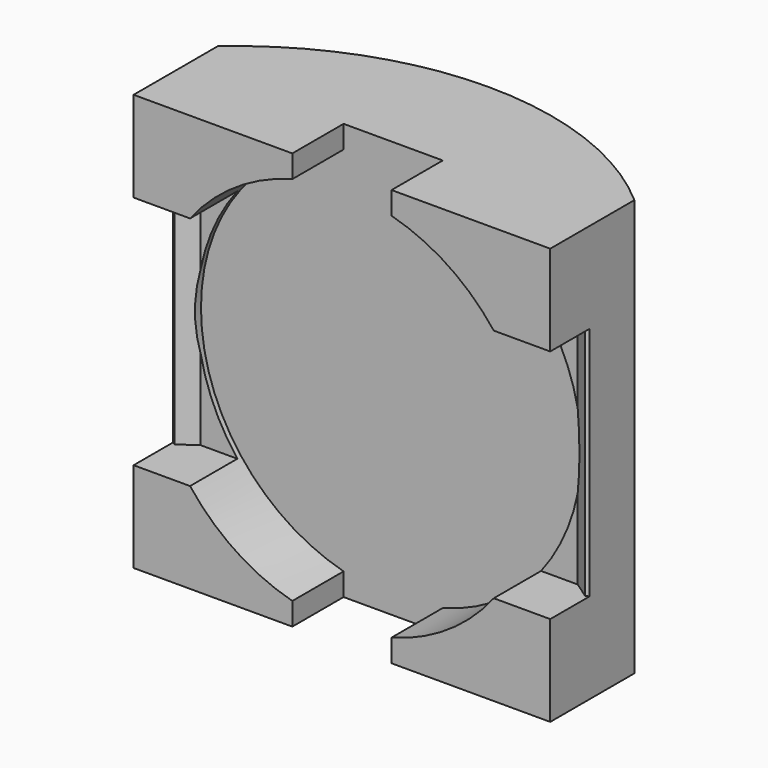
from build123d import *

# Parameters (mm, degrees)
PAD001_DEPTH         = 16.8
PAD001_DEPTH_BACK    = 16.8
POCKET004_DEPTH      = 9.5
POCKET004_DEPTH_BACK = 9.5
CHAMFER002_SIZE      = 0.3
POCKET005_DEPTH      = 15.866909


with BuildPart() as part:
    # Sketch005 → Pad001 (new body, two sides)
    with BuildSketch(Plane.XY) as pad001_sk:
        with BuildLine():
            Line((-16.8, 10.7), (16.8, 10.7))
            Line((16.8, 10.7), (16.8, 19.183587))
            ThreePointArc((16.8, 19.183587), (0, 25.5), (-16.8, 19.183587))
            Line((-16.8, 10.7), (-16.8, 19.183587))
        make_face()
    extrude(amount=PAD001_DEPTH)
    extrude(pad001_sk.sketch, amount=-PAD001_DEPTH_BACK)

    # Sketch006 → Pocket004 (cut, two sides)
    with BuildSketch(Plane.XY) as pocket004_sk:
        with BuildLine():
            Line((-15.2, 15.466909), (15.2, 15.466909))
            Line((15.2, 15.466909), (21, 11.466909))
            Line((21, 11.466909), (23, 11.466909))
            ThreePointArc((24.265231, 8.466909), (23.680172, 9.986965), (23, 11.466909))
            Line((11, 10.5), (24.265231, 8.466909))
            Line((11, 10.5), (-11, 10.5))
            Line((-11, 10.5), (-24.265231, 8.466909))
            ThreePointArc((-23, 11.466909), (-23.680172, 9.986965), (-24.265231, 8.466909))
            Line((-21, 11.466909), (-23, 11.466909))
            Line((-15.2, 15.466909), (-21, 11.466909))
        make_face()
    extrude(amount=-POCKET004_DEPTH, mode=Mode.SUBTRACT)
    extrude(pocket004_sk.sketch, amount=POCKET004_DEPTH_BACK, mode=Mode.SUBTRACT)

    # Chamfer002
    chamfer002_edges = [part.edges().sort_by_distance(p)[0] for p in [
        (-16.8, 14.363461, 0),
        (16.8, 14.363461, 0),
    ]]
    chamfer(chamfer002_edges, length=CHAMFER002_SIZE)

    # Sketch007 → Pocket005 (cut)
    with BuildSketch(Plane.XZ):
        with BuildLine():
            Line((-4, 14.974979), (-4, 27.304979))
            Line((-4, 27.304979), (4, 27.304979))
            Line((4, 27.304979), (4, 14.974979))
            ThreePointArc((4, -14.974979), (15.5, 0), (4, 14.974979))
            Line((4, -27.304979), (4, -14.974979))
            Line((-4, -27.304979), (4, -27.304979))
            Line((-4, -14.974979), (-4, -27.304979))
            ThreePointArc((-4, 14.974979), (-15.5, 0), (-4, -14.974979))
        make_face()
    extrude(amount=-POCKET005_DEPTH, mode=Mode.SUBTRACT)


solid = part.part
